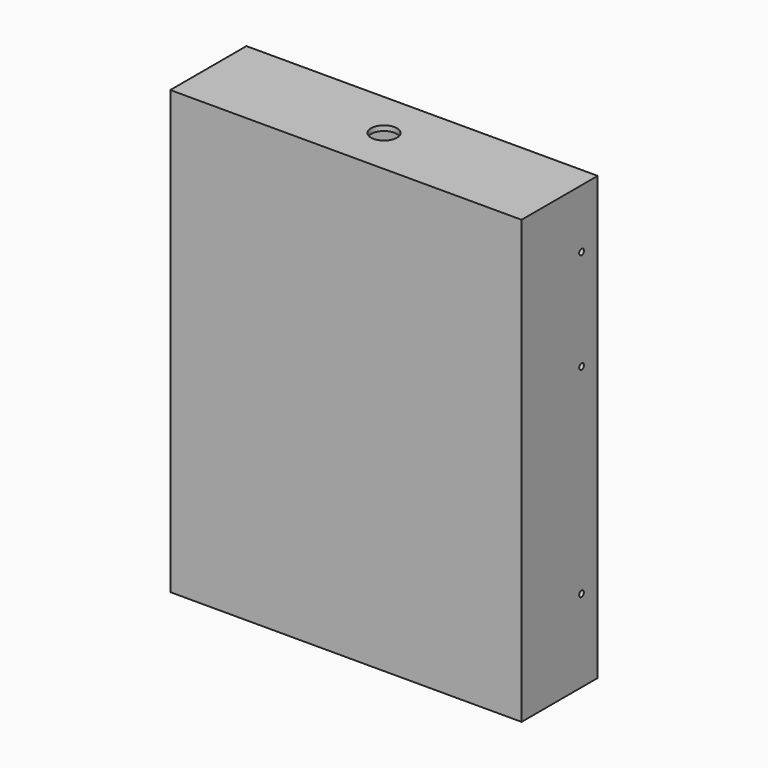
from build123d import *

# Parameters (mm, degrees)
F0_W     = 104.5
F0_H     = 28.3
F0_W_2   = 101.5
F0_H_2   = 25.3
F1_DEPTH = 130
F2_R     = 0.875
F3_DEPTH = 130
F4_W     = 104.5
F4_H     = 28.3
F5_DEPTH = 1.5
F6_R     = 3.847092
F7_DEPTH = 3


with BuildPart() as f1:
    # F0 (on Top) → F1 (new body)
    with BuildSketch(Plane.XY):
        with Locations((-2.827974, -2.56671)):
            Rectangle(F0_W, F0_H)
        with Locations((-2.827974, -2.56671)):
            Rectangle(F0_W_2, F0_H_2, mode=Mode.SUBTRACT)
    extrude(amount=F1_DEPTH)

    # F2 (on face) → F3 (cut)
    with BuildSketch(Plane.YZ.offset(49.422026)):
        with Locations((5.58329, 114)):
            Circle(F2_R)
        with Locations((5.58329, 84)):
            Circle(F2_R)
        with Locations((5.58329, 24.5)):
            Circle(F2_R)
    extrude(amount=-F3_DEPTH, mode=Mode.SUBTRACT)

    # F4 (on face) → F5 (join)
    with BuildSketch(Plane.XY.offset(130)):
        with Locations((-2.827974, -2.56671)):
            Rectangle(F4_W, F4_H)
    extrude(amount=F5_DEPTH)

    # F6 (on face) → F7 (cut)
    with BuildSketch(Plane(origin=(0, 0, 130), x_dir=(1, 0, 0), z_dir=(0, 0, -1))):
        with Locations((-2.827974, 2.56671)):
            Circle(F6_R)
    extrude(amount=-F7_DEPTH, mode=Mode.SUBTRACT)


solid = f1.part
